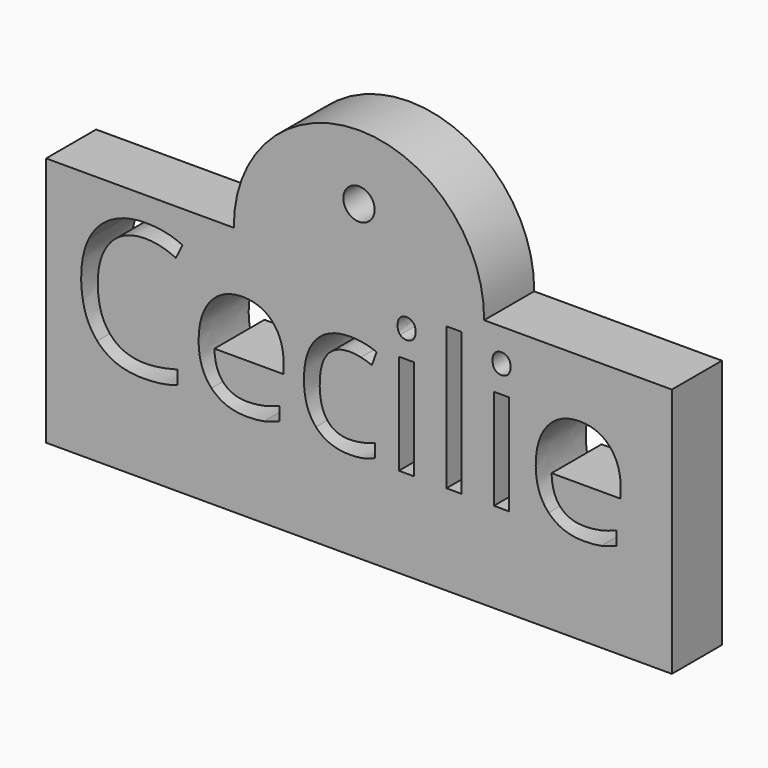
from build123d import *

# Parameters (mm, degrees)
F0_W     = 2.4323057696
F0_H     = 16.0513434701
F0_H_2   = 22.7905644657
F0_R     = 2.5
F1_DEPTH = 10


with BuildPart() as f1:
    # F0 (on Front) → F1 (new body)
    with BuildSketch(Plane.XZ):
        with BuildLine():
            Line((-50, 60.9273851891), (-50, 20.9273851891))
            Line((-50, 20.9273851891), (50, 20.9273851891))
            Line((50, 20.9273851891), (50, 60.9273851891))
            Line((50, 60.9273851891), (20, 60.9273851891))
            ThreePointArc((20, 60.9273851891), (0, 81.1604265208), (-20, 60.9273851891))
            Line((-20, 60.9273851891), (-50, 60.9273851891))
        make_face()
        with BuildLine():
            add(Edge.make_bspline(
                [(-29.2562490754, 53.6756249348), (-31.688554845, 54.8144501796), (-34.1208606146, 54.8144501796)],
                knots=[0, 0, 0, 1, 1, 1], degree=2))
            add(Edge.make_bspline(
                [(-34.1208606146, 54.8144501796), (-37.6498129162, 54.8144501796), (-39.6931372237, 52.4641585736)],
                knots=[0, 0, 0, 1, 1, 1], degree=2))
            add(Edge.make_bspline(
                [(-39.6931372237, 52.4641585736), (-41.7364615311, 50.1138669677), (-41.7364615311, 46.0272183529)],
                knots=[0, 0, 0, 1, 1, 1], degree=2))
            add(Edge.make_bspline(
                [(-41.7364615311, 46.0272183529), (-41.7364615311, 41.8280931706), (-39.7657783401, 39.5340398484)],
                knots=[0, 0, 0, 1, 1, 1], degree=2))
            add(Edge.make_bspline(
                [(-39.7657783401, 39.5340398484), (-37.7950951491, 37.2399865262), (-34.1489797565, 37.2399865262)],
                knots=[0, 0, 0, 1, 1, 1], degree=2))
            add(Edge.make_bspline(
                [(-34.1489797565, 37.2399865262), (-31.9088214561, 37.2399865262), (-29.0359824643, 38.0460685924)],
                knots=[0, 0, 0, 1, 1, 1], degree=2))
            Line((-29.0359824643, 38.0460685924), (-29.0359824643, 35.8668350994))
            add(Edge.make_bspline(
                [(-29.0359824643, 35.8668350994), (-31.2620811937, 35.0279473676), (-34.5285881714, 35.0279473676)],
                knots=[0, 0, 0, 1, 1, 1], degree=2))
            add(Edge.make_bspline(
                [(-34.5285881714, 35.0279473676), (-39.2572905251, 35.0279473676), (-41.8278487421, 37.9007863595)],
                knots=[0, 0, 0, 1, 1, 1], degree=2))
            add(Edge.make_bspline(
                [(-41.8278487421, 37.9007863595), (-44.3984069592, 40.7736253514), (-44.3984069592, 46.0600240183)],
                knots=[0, 0, 0, 1, 1, 1], degree=2))
            add(Edge.make_bspline(
                [(-44.3984069592, 46.0600240183), (-44.3984069592, 49.3687097088), (-43.161164718, 51.8572537621)],
                knots=[0, 0, 0, 1, 1, 1], degree=2))
            add(Edge.make_bspline(
                [(-43.161164718, 51.8572537621), (-41.9239224768, 54.3457978155), (-39.5876904418, 55.6931733622)],
                knots=[0, 0, 0, 1, 1, 1], degree=2))
            add(Edge.make_bspline(
                [(-39.5876904418, 55.6931733622), (-37.2514584068, 57.040548909), (-34.0880549492, 57.040548909)],
                knots=[0, 0, 0, 1, 1, 1], degree=2))
            add(Edge.make_bspline(
                [(-34.0880549492, 57.040548909), (-30.723130975, 57.040548909), (-28.2017812562, 55.8126797151)],
                knots=[0, 0, 0, 1, 1, 1], degree=2))
            Line((-28.2017812562, 55.8126797151), (-29.2562490754, 53.6756249348))
        make_face(mode=Mode.SUBTRACT)
        with BuildLine():
            add(Edge.make_bspline(
                [(-15.1732455345, 35.271646597), (-16.3214438265, 35.0279473676), (-17.9476675299, 35.0279473676)],
                knots=[0, 0, 0, 1, 1, 1], degree=2))
            add(Edge.make_bspline(
                [(-17.9476675299, 35.0279473676), (-21.5047389733, 35.0279473676), (-23.5644661135, 37.1978078134)],
                knots=[0, 0, 0, 1, 1, 1], degree=2))
            add(Edge.make_bspline(
                [(-23.5644661135, 37.1978078134), (-25.6241932537, 39.3676682591), (-25.6241932537, 43.2153041683)],
                knots=[0, 0, 0, 1, 1, 1], degree=2))
            add(Edge.make_bspline(
                [(-25.6241932537, 43.2153041683), (-25.6241932537, 47.1004322666), (-23.7120916082, 49.3851125416)],
                knots=[0, 0, 0, 1, 1, 1], degree=2))
            add(Edge.make_bspline(
                [(-23.7120916082, 49.3851125416), (-21.7999899627, 51.6697928165), (-18.5756616978, 51.6697928165)],
                knots=[0, 0, 0, 1, 1, 1], degree=2))
            add(Edge.make_bspline(
                [(-18.5756616978, 51.6697928165), (-15.5622269966, 51.6697928165), (-13.8047806313, 49.6850500546)],
                knots=[0, 0, 0, 1, 1, 1], degree=2))
            add(Edge.make_bspline(
                [(-13.8047806313, 49.6850500546), (-12.047334266, 47.7003072927), (-12.047334266, 44.4478598859)],
                knots=[0, 0, 0, 1, 1, 1], degree=2))
            Line((-12.047334266, 44.4478598859), (-12.047334266, 42.9106801317))
            Line((-12.047334266, 42.9106801317), (-23.1028435349, 42.9106801317))
            add(Edge.make_bspline(
                [(-23.1028435349, 42.9106801317), (-23.0278591566, 40.0847063762), (-21.6734538244, 38.6201677384)],
                knots=[0, 0, 0, 1, 1, 1], degree=2))
            add(Edge.make_bspline(
                [(-21.6734538244, 38.6201677384), (-20.3190484922, 37.1556291006), (-17.8586235807, 37.1556291006)],
                knots=[0, 0, 0, 1, 1, 1], degree=2))
            add(Edge.make_bspline(
                [(-17.8586235807, 37.1556291006), (-15.2669760073, 37.1556291006), (-12.7362532412, 38.2382160617)],
                knots=[0, 0, 0, 1, 1, 1], degree=2))
            Line((-12.7362532412, 38.2382160617), (-12.7362532412, 36.0683556159))
            add(Edge.make_bspline(
                [(-12.7362532412, 36.0683556159), (-14.0250472424, 35.5153458263), (-15.1732455345, 35.271646597)],
                knots=[0, 0, 0, 1, 1, 1], degree=2))
        make_face(mode=Mode.SUBTRACT)
        with BuildLine():
            add(Edge.make_bspline(
                [(2.56993297, 35.8668350994), (0.9624553612, 35.0279473676), (-1.4839099794, 35.0279473676)],
                knots=[0, 0, 0, 1, 1, 1], degree=2))
            add(Edge.make_bspline(
                [(-1.4839099794, 35.0279473676), (-4.9706835682, 35.0279473676), (-6.8827852137, 37.1743751952)],
                knots=[0, 0, 0, 1, 1, 1], degree=2))
            add(Edge.make_bspline(
                [(-6.8827852137, 37.1743751952), (-8.7948868592, 39.3208030227), (-8.7948868592, 43.2481098338)],
                knots=[0, 0, 0, 1, 1, 1], degree=2))
            add(Edge.make_bspline(
                [(-8.7948868592, 43.2481098338), (-8.7948868592, 47.2738336413), (-6.85232281, 49.4718132289)],
                knots=[0, 0, 0, 1, 1, 1], degree=2))
            add(Edge.make_bspline(
                [(-6.85232281, 49.4718132289), (-4.9097587609, 51.6697928165), (-1.3245681756, 51.6697928165)],
                knots=[0, 0, 0, 1, 1, 1], degree=2))
            add(Edge.make_bspline(
                [(-1.3245681756, 51.6697928165), (-0.1669968363, 51.6697928165), (0.990574503, 51.4190638017)],
                knots=[0, 0, 0, 1, 1, 1], degree=2))
            add(Edge.make_bspline(
                [(0.990574503, 51.4190638017), (2.1481458423, 51.1683347869), (2.8042591521, 50.8309050848)],
                knots=[0, 0, 0, 1, 1, 1], degree=2))
            Line((2.8042591521, 50.8309050848), (2.0591018932, 48.7688346828))
            add(Edge.make_bspline(
                [(2.0591018932, 48.7688346828), (1.2530198269, 49.092204814), (0.3016555278, 49.3030983779)],
                knots=[0, 0, 0, 1, 1, 1], degree=2))
            add(Edge.make_bspline(
                [(0.3016555278, 49.3030983779), (-0.6497087713, 49.5139919417), (-1.3808064593, 49.5139919417)],
                knots=[0, 0, 0, 1, 1, 1], degree=2))
            add(Edge.make_bspline(
                [(-1.3808064593, 49.5139919417), (-6.2735371404, 49.5139919417), (-6.2735371404, 43.2762289756)],
                knots=[0, 0, 0, 1, 1, 1], degree=2))
            add(Edge.make_bspline(
                [(-6.2735371404, 43.2762289756), (-6.2735371404, 40.3190325582), (-5.0808168738, 38.7373308294)],
                knots=[0, 0, 0, 1, 1, 1], degree=2))
            add(Edge.make_bspline(
                [(-5.0808168738, 38.7373308294), (-3.8880966071, 37.1556291006), (-1.5448347867, 37.1556291006)],
                knots=[0, 0, 0, 1, 1, 1], degree=2))
            add(Edge.make_bspline(
                [(-1.5448347867, 37.1556291006), (0.4609973316, 37.1556291006), (2.56993297, 38.0179494505)],
                knots=[0, 0, 0, 1, 1, 1], degree=2))
            Line((2.56993297, 38.0179494505), (2.56993297, 35.8668350994))
        make_face(mode=Mode.SUBTRACT)
        with Locations((7.5962295749, 43.3488700921)):
            Rectangle(F0_W, F0_H, mode=Mode.SUBTRACT)
        with Locations((22.7711931242, 43.3488700921)):
            Rectangle(F0_W, F0_H, mode=Mode.SUBTRACT)
        with Locations((15.1837113495, 46.7184805899)):
            Rectangle(F0_W, F0_H_2, mode=Mode.SUBTRACT)
        with BuildLine():
            add(Edge.make_bspline(
                [(38.6983437178, 35.271646597), (37.5501454258, 35.0279473676), (35.9239217224, 35.0279473676)],
                knots=[0, 0, 0, 1, 1, 1], degree=2))
            add(Edge.make_bspline(
                [(35.9239217224, 35.0279473676), (32.3668502789, 35.0279473676), (30.3071231387, 37.1978078134)],
                knots=[0, 0, 0, 1, 1, 1], degree=2))
            add(Edge.make_bspline(
                [(30.3071231387, 37.1978078134), (28.2473959986, 39.3676682591), (28.2473959986, 43.2153041683)],
                knots=[0, 0, 0, 1, 1, 1], degree=2))
            add(Edge.make_bspline(
                [(28.2473959986, 43.2153041683), (28.2473959986, 47.1004322666), (30.1594976441, 49.3851125416)],
                knots=[0, 0, 0, 1, 1, 1], degree=2))
            add(Edge.make_bspline(
                [(30.1594976441, 49.3851125416), (32.0715992895, 51.6697928165), (35.2959275545, 51.6697928165)],
                knots=[0, 0, 0, 1, 1, 1], degree=2))
            add(Edge.make_bspline(
                [(35.2959275545, 51.6697928165), (38.3093622556, 51.6697928165), (40.0668086209, 49.6850500546)],
                knots=[0, 0, 0, 1, 1, 1], degree=2))
            add(Edge.make_bspline(
                [(40.0668086209, 49.6850500546), (41.8242549863, 47.7003072927), (41.8242549863, 44.4478598859)],
                knots=[0, 0, 0, 1, 1, 1], degree=2))
            Line((41.8242549863, 44.4478598859), (41.8242549863, 42.9106801317))
            Line((41.8242549863, 42.9106801317), (30.7687457174, 42.9106801317))
            add(Edge.make_bspline(
                [(30.7687457174, 42.9106801317), (30.8437300956, 40.0847063762), (32.1981354278, 38.6201677384)],
                knots=[0, 0, 0, 1, 1, 1], degree=2))
            add(Edge.make_bspline(
                [(32.1981354278, 38.6201677384), (33.5525407601, 37.1556291006), (36.0129656715, 37.1556291006)],
                knots=[0, 0, 0, 1, 1, 1], degree=2))
            add(Edge.make_bspline(
                [(36.0129656715, 37.1556291006), (38.604613245, 37.1556291006), (41.1353360111, 38.2382160617)],
                knots=[0, 0, 0, 1, 1, 1], degree=2))
            Line((41.1353360111, 38.2382160617), (41.1353360111, 36.0683556159))
            add(Edge.make_bspline(
                [(41.1353360111, 36.0683556159), (39.8465420098, 35.5153458263), (38.6983437178, 35.271646597)],
                knots=[0, 0, 0, 1, 1, 1], degree=2))
        make_face(mode=Mode.SUBTRACT)
        with BuildLine():
            add(Edge.make_bspline(
                [(6.5839404685, 54.5004530956), (6.1738696499, 54.9034941287), (6.1738696499, 55.7236357659)],
                knots=[0, 0, 0, 1, 1, 1], degree=2))
            add(Edge.make_bspline(
                [(6.1738696499, 55.7236357659), (6.1738696499, 56.557836974), (6.5839404685, 56.9468184362)],
                knots=[0, 0, 0, 1, 1, 1], degree=2))
            add(Edge.make_bspline(
                [(6.5839404685, 56.9468184362), (6.994011287, 57.3357998984), (7.6126324076, 57.3357998984)],
                knots=[0, 0, 0, 1, 1, 1], degree=2))
            add(Edge.make_bspline(
                [(7.6126324076, 57.3357998984), (8.1984478628, 57.3357998984), (8.6225782523, 56.9397886507)],
                knots=[0, 0, 0, 1, 1, 1], degree=2))
            add(Edge.make_bspline(
                [(8.6225782523, 56.9397886507), (9.0467086418, 56.5437774031), (9.0467086418, 55.7236357659)],
                knots=[0, 0, 0, 1, 1, 1], degree=2))
            add(Edge.make_bspline(
                [(9.0467086418, 55.7236357659), (9.0467086418, 54.9034941287), (8.6225782523, 54.5004530956)],
                knots=[0, 0, 0, 1, 1, 1], degree=2))
            add(Edge.make_bspline(
                [(8.6225782523, 54.5004530956), (8.1984478628, 54.0974120625), (7.6126324076, 54.0974120625)],
                knots=[0, 0, 0, 1, 1, 1], degree=2))
            add(Edge.make_bspline(
                [(7.6126324076, 54.0974120625), (6.994011287, 54.0974120625), (6.5839404685, 54.5004530956)],
                knots=[0, 0, 0, 1, 1, 1], degree=2))
        make_face(mode=Mode.SUBTRACT)
        with BuildLine():
            add(Edge.make_bspline(
                [(21.7589040177, 54.5004530956), (21.3488331991, 54.9034941287), (21.3488331991, 55.7236357659)],
                knots=[0, 0, 0, 1, 1, 1], degree=2))
            add(Edge.make_bspline(
                [(21.3488331991, 55.7236357659), (21.3488331991, 56.557836974), (21.7589040177, 56.9468184362)],
                knots=[0, 0, 0, 1, 1, 1], degree=2))
            add(Edge.make_bspline(
                [(21.7589040177, 56.9468184362), (22.1689748363, 57.3357998984), (22.7875959569, 57.3357998984)],
                knots=[0, 0, 0, 1, 1, 1], degree=2))
            add(Edge.make_bspline(
                [(22.7875959569, 57.3357998984), (23.373411412, 57.3357998984), (23.7975418015, 56.9397886507)],
                knots=[0, 0, 0, 1, 1, 1], degree=2))
            add(Edge.make_bspline(
                [(23.7975418015, 56.9397886507), (24.221672191, 56.5437774031), (24.221672191, 55.7236357659)],
                knots=[0, 0, 0, 1, 1, 1], degree=2))
            add(Edge.make_bspline(
                [(24.221672191, 55.7236357659), (24.221672191, 54.9034941287), (23.7975418015, 54.5004530956)],
                knots=[0, 0, 0, 1, 1, 1], degree=2))
            add(Edge.make_bspline(
                [(23.7975418015, 54.5004530956), (23.373411412, 54.0974120625), (22.7875959569, 54.0974120625)],
                knots=[0, 0, 0, 1, 1, 1], degree=2))
            add(Edge.make_bspline(
                [(22.7875959569, 54.0974120625), (22.1689748363, 54.0974120625), (21.7589040177, 54.5004530956)],
                knots=[0, 0, 0, 1, 1, 1], degree=2))
        make_face(mode=Mode.SUBTRACT)
        with Locations((0, 70.7689598203)):
            Circle(F0_R, mode=Mode.SUBTRACT)
    extrude(amount=F1_DEPTH)


solid = f1.part
